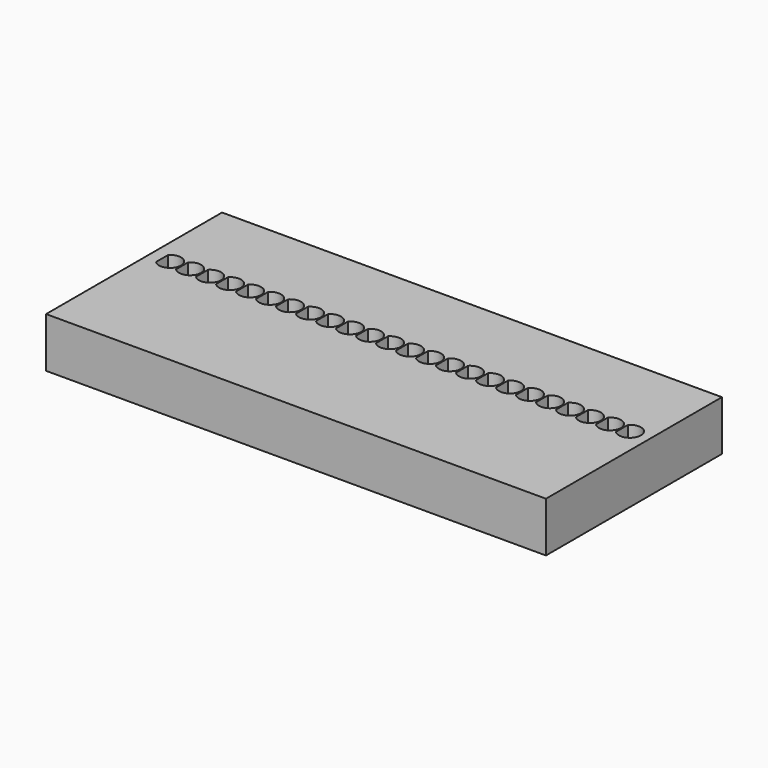
from build123d import *

# Parameters (mm, degrees)
F0_W     = 127
F0_H     = 55.88
F1_DEPTH = 12.7
F3_DEPTH = 11.43


with BuildPart() as f1:
    # F0 (on Top) → F1 (new body)
    with BuildSketch(Plane.XY):
        Rectangle(F0_W, F0_H)
    extrude(amount=F1_DEPTH)

    # F2 (on face) → F3 (cut)
    with BuildSketch(Plane.XY.offset(12.7)):
        with BuildLine():
            Line((-60.452, 6.997658), (-60.452, 3.162342))
            ThreePointArc((-60.452, 3.162342), (-55.626, 5.08), (-60.452, 6.997658))
        make_face()
        with BuildLine():
            Line((-55.372, 6.997658), (-55.372, 3.162342))
            ThreePointArc((-55.372, 3.162342), (-50.546, 5.08), (-55.372, 6.997658))
        make_face()
        with BuildLine():
            Line((-50.292, 6.997658), (-50.292, 3.162342))
            ThreePointArc((-50.292, 3.162342), (-45.466, 5.08), (-50.292, 6.997658))
        make_face()
        with BuildLine():
            Line((-45.212, 6.997658), (-45.212, 3.162342))
            ThreePointArc((-45.212, 3.162342), (-40.386, 5.08), (-45.212, 6.997658))
        make_face()
        with BuildLine():
            Line((-40.132, 6.997658), (-40.132, 3.162342))
            ThreePointArc((-40.132, 3.162342), (-35.306, 5.08), (-40.132, 6.997658))
        make_face()
        with BuildLine():
            Line((-35.052, 6.997658), (-35.052, 3.162342))
            ThreePointArc((-35.052, 3.162342), (-30.226, 5.08), (-35.052, 6.997658))
        make_face()
        with BuildLine():
            Line((-29.972, 6.997658), (-29.972, 3.162342))
            ThreePointArc((-29.972, 3.162342), (-25.146, 5.08), (-29.972, 6.997658))
        make_face()
        with BuildLine():
            Line((-24.892, 6.997658), (-24.892, 3.162342))
            ThreePointArc((-24.892, 3.162342), (-20.066, 5.08), (-24.892, 6.997658))
        make_face()
        with BuildLine():
            Line((-19.812, 6.997658), (-19.812, 3.162342))
            ThreePointArc((-19.812, 3.162342), (-14.986, 5.08), (-19.812, 6.997658))
        make_face()
        with BuildLine():
            Line((-14.732, 6.997658), (-14.732, 3.162342))
            ThreePointArc((-14.732, 3.162342), (-9.906, 5.08), (-14.732, 6.997658))
        make_face()
        with BuildLine():
            Line((-9.652, 6.997658), (-9.652, 3.162342))
            ThreePointArc((-9.652, 3.162342), (-4.826, 5.08), (-9.652, 6.997658))
        make_face()
        with BuildLine():
            Line((-4.572, 6.997658), (-4.572, 3.162342))
            ThreePointArc((-4.572, 3.162342), (0.254, 5.08), (-4.572, 6.997658))
        make_face()
        with BuildLine():
            Line((0.508, 6.997658), (0.508, 3.162342))
            ThreePointArc((0.508, 3.162342), (5.334, 5.08), (0.508, 6.997658))
        make_face()
        with BuildLine():
            Line((5.588, 6.997658), (5.588, 3.162342))
            ThreePointArc((5.588, 3.162342), (10.414, 5.08), (5.588, 6.997658))
        make_face()
        with BuildLine():
            Line((10.668, 6.997658), (10.668, 3.162342))
            ThreePointArc((10.668, 3.162342), (15.494, 5.08), (10.668, 6.997658))
        make_face()
        with BuildLine():
            Line((15.748, 6.997658), (15.748, 3.162342))
            ThreePointArc((15.748, 3.162342), (20.574, 5.08), (15.748, 6.997658))
        make_face()
        with BuildLine():
            Line((20.828, 6.997658), (20.828, 3.162342))
            ThreePointArc((20.828, 3.162342), (25.654, 5.08), (20.828, 6.997658))
        make_face()
        with BuildLine():
            Line((25.908, 6.997658), (25.908, 3.162342))
            ThreePointArc((25.908, 3.162342), (30.734, 5.08), (25.908, 6.997658))
        make_face()
        with BuildLine():
            Line((30.988, 6.997658), (30.988, 3.162342))
            ThreePointArc((30.988, 3.162342), (35.814, 5.08), (30.988, 6.997658))
        make_face()
        with BuildLine():
            Line((36.068, 6.997658), (36.068, 3.162342))
            ThreePointArc((36.068, 3.162342), (40.894, 5.08), (36.068, 6.997658))
        make_face()
        with BuildLine():
            Line((41.148, 6.997658), (41.148, 3.162342))
            ThreePointArc((41.148, 3.162342), (45.974, 5.08), (41.148, 6.997658))
        make_face()
        with BuildLine():
            Line((46.228, 6.997658), (46.228, 3.162342))
            ThreePointArc((46.228, 3.162342), (51.054, 5.08), (46.228, 6.997658))
        make_face()
        with BuildLine():
            Line((51.308, 6.997658), (51.308, 3.162342))
            ThreePointArc((51.308, 3.162342), (56.134, 5.08), (51.308, 6.997658))
        make_face()
        with BuildLine():
            Line((56.388, 6.997658), (56.388, 3.162342))
            ThreePointArc((56.388, 3.162342), (61.214, 5.08), (56.388, 6.997658))
        make_face()
    extrude(amount=-F3_DEPTH, mode=Mode.SUBTRACT)


solid = f1.part
